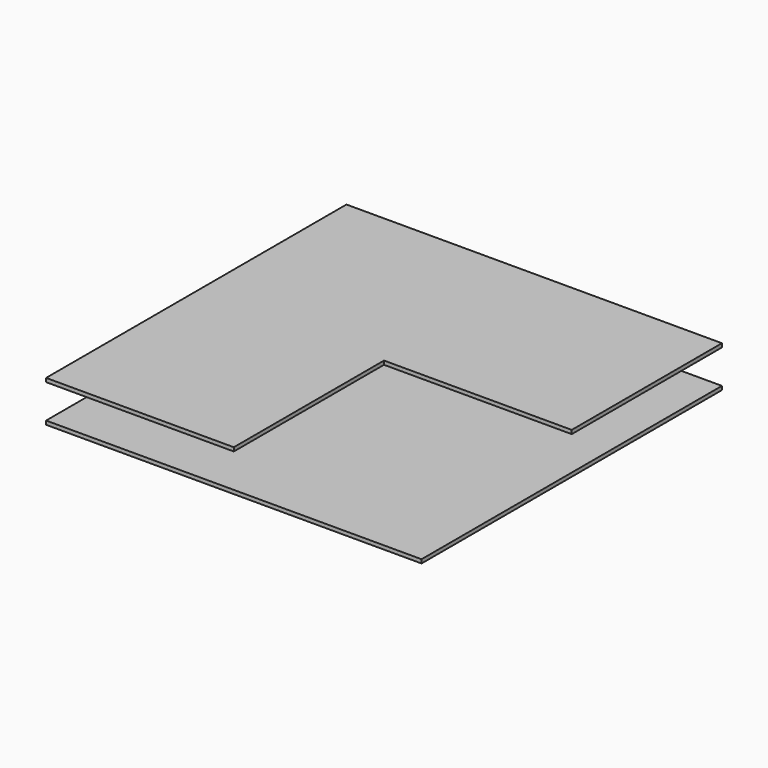
from build123d import *

# Parameters (mm, degrees)
F0_W     = 100
F0_H     = 100
F1_DEPTH = 1
F3_W     = 50
F3_H     = 50
F4_DEPTH = 1


with BuildPart() as f1:
    # F0 (on Top) → F1 (new body)
    with BuildSketch(Plane.XY):
        with Locations((50, 50)):
            Rectangle(F0_W, F0_H)
    extrude(amount=F1_DEPTH)


with BuildPart() as f4:
    # F3 (on offset) → F4 (new body)
    with BuildSketch(Plane.XY.offset(10)):
        with Locations((25, 25)):
            Rectangle(F3_W, F3_H)
        with Locations((25, 75)):
            Rectangle(F3_W, F3_H)
        with Locations((75, 75)):
            Rectangle(F3_W, F3_H)
    extrude(amount=F4_DEPTH)


solid = Compound([f1.part, f4.part])
